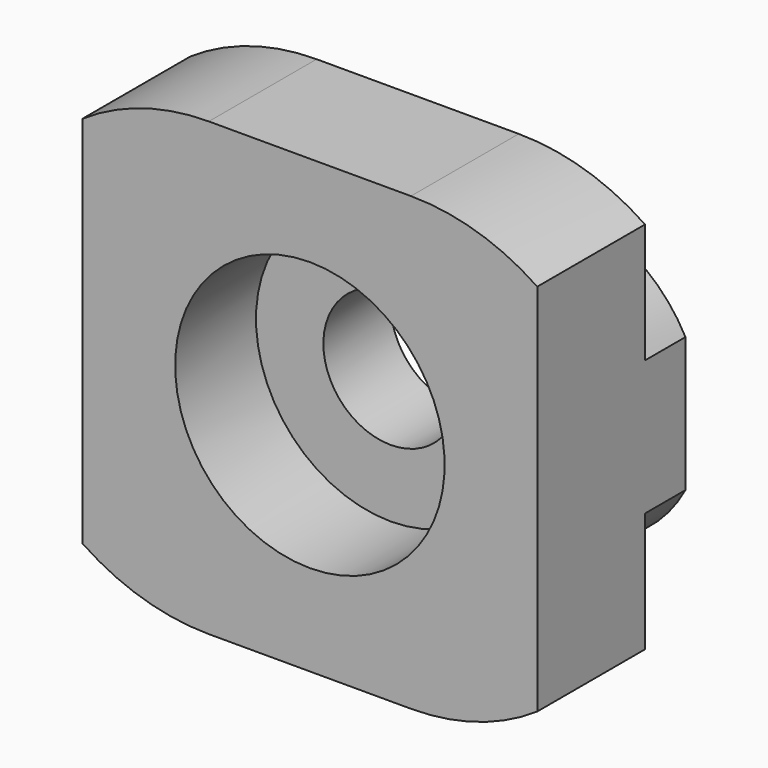
from build123d import *

# Parameters (mm, degrees)
SKETCH144_W             = 15
SKETCH144_H             = 5.5
PAD031_DEPTH            = 6.75
BODY058_PLACEMENT_ANGLE = 90


with BuildPart() as part:
    # Sketch144 → Pad031 (new body, symmetric)
    with BuildSketch(Plane.XY):
        with Locations((0, -4.25)):
            Rectangle(SKETCH144_W, SKETCH144_H)
    extrude(amount=PAD031_DEPTH, both=True)

    # Sketch145 → Groove005 (revolve, cut)
    with BuildSketch(Plane.XY):
        Polygon((0, 0), (0, -8), (4, -8), (4, -4), (2, -4), (2, 0), align=None)
    revolve(axis=Axis((0, 0, 0), (0, 1, 0)), mode=Mode.SUBTRACT)

    # SubtractivePipe006002: sweep along a path in Sketch146
    with BuildLine(Plane.XZ) as subtractivepipe006002_path:
        ThreePointArc((6.75, 3), (0, 9.75), (-6.75, 3))
        Line((-6.75, 3), (-6.75, -3))
        ThreePointArc((-6.75, -3), (0, -9.75), (6.75, -3))
        Line((6.75, -3), (6.75, 3))
    # Sketch147 → SubtractivePipe006002 (sweep, cut)
    with BuildSketch(Plane.XY):
        Polygon((4.25, 0), (4.25, -3), (6.7, -3), (6.7, -8), (10, -8), (10, 0), align=None)
    sweep(path=subtractivepipe006002_path.line, mode=Mode.SUBTRACT)


with BuildPart() as part_1:
    # Body058 placement: moved
    add(part.part.moved(Location((-50, 0, -1))).rotate(Axis((-50, 0, -1), (0, 1, 0)), BODY058_PLACEMENT_ANGLE))


solid = part_1.part
